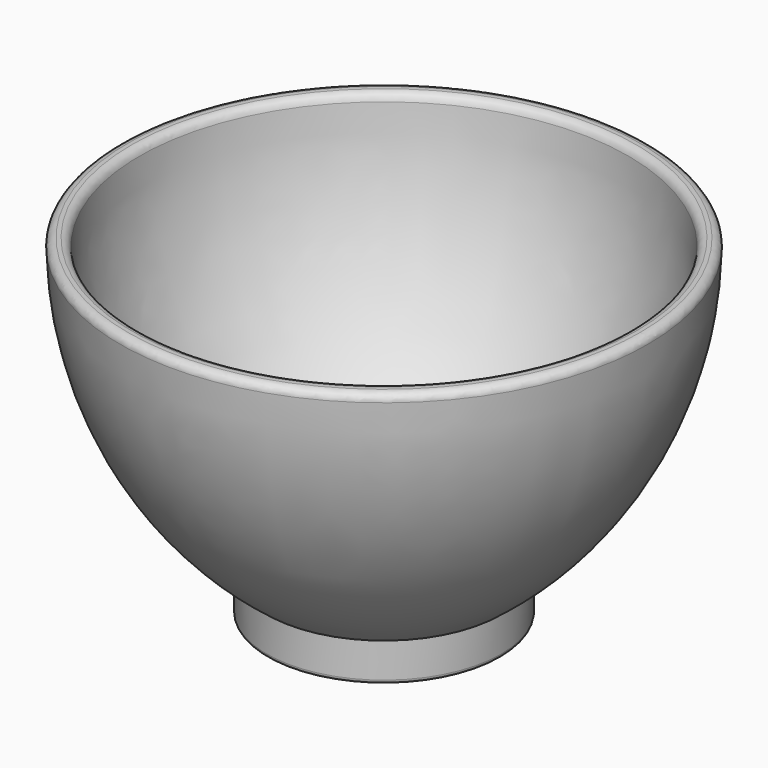
from build123d import *

# Parameters (mm, degrees)
F3_R     = 2
F4_R     = 1
F6_R     = 5
F6_R_2   = 3.5
F6_R_3   = 2.5
F7_DEPTH = 5


with BuildPart() as f2:
    # F1 (on Front) → F2 (revolve)
    with BuildSketch(Plane.XZ):
        with BuildLine():
            Line((0, 15), (0, 10))
            Line((0, 10), (25.4, 10))
            Line((25.4, 10), (25.4, 0))
            Line((25.4, 0), (30.4, 0))
            Line((30.4, 0), (30.4, 10))
            ThreePointArc((30.4, 10), (58.456566, 43.596717), (68.5, 86.2))
            Line((68.5, 86.2), (63.5, 86.2))
            ThreePointArc((63.5, 86.2), (53.215486, 45.90948), (25.4, 15))
            Line((25.4, 15), (0, 15))
        make_face()
    revolve(axis=Axis((0, 0, 27.940115), (0, 0, 1)))

    # F3
    f3_edges = [f2.edges().sort_by_distance(p)[0] for p in [
        (-68.5, 0, 86.2),
        (-63.5, 0, 86.2),
    ]]
    fillet(f3_edges, radius=F3_R)

    # F4
    f4_edges = [f2.edges().sort_by_distance(p)[0] for p in [
        (-25.4, 0, 0),
        (-30.4, 0, 0),
    ]]
    fillet(f4_edges, radius=F4_R)

    # F6 (on face) → F7 (cut, through all)
    with BuildSketch(Plane.XY.offset(15)):
        Circle(F6_R)
        with Locations((0, 12.690183)):
            Circle(F6_R_2)
        with Locations((-12.069081, 3.921482)):
            Circle(F6_R_2)
        with Locations((-7.459102, -10.266574)):
            Circle(F6_R_2)
        with Locations((7.459102, -10.266574)):
            Circle(F6_R_2)
        with Locations((12.069081, 3.921482)):
            Circle(F6_R_2)
        with Locations((-10.655627, 15.791141)):
            Circle(F6_R_3)
        with Locations((-18.311037, -5.254372)):
            Circle(F6_R_3)
        with Locations((-0.661216, -19.038521)):
            Circle(F6_R_3)
        with Locations((17.902383, -6.512081)):
            Circle(F6_R_3)
        with Locations((11.725497, 15.013834)):
            Circle(F6_R_3)
    extrude(amount=-F7_DEPTH, mode=Mode.SUBTRACT)


solid = f2.part
